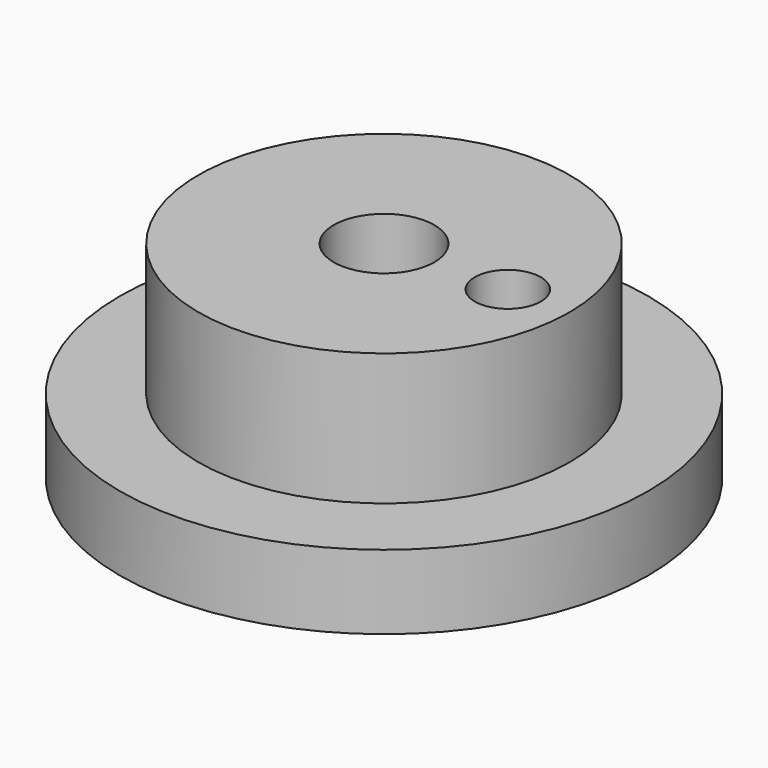
from build123d import *

# Parameters (mm, degrees)
F3_D = 4


with BuildPart() as f1:
    # F0 (on Front) → F1 (revolve)
    with BuildSketch(Plane.XZ):
        Polygon((11.25, 12.5), (3.05, 12.5), (3.05, 0), (16, 0), (16, 4.5), (11.25, 4.5), align=None)
    revolve(axis=Axis((0, 0, 22.5), (0, 0, 1)))

    # F3 (through all)
    with Locations(Plane.XY.offset(12.5)):
        with Locations((7.5, 0)):
            Hole(F3_D / 2)


solid = f1.part
